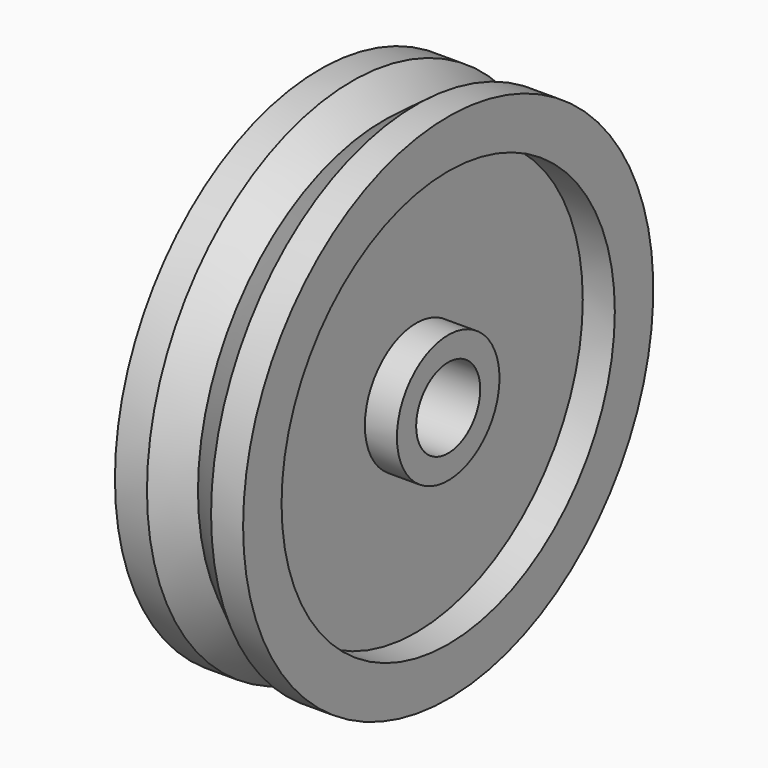
from build123d import *


with BuildPart() as f2:
    # F1 (on Top) → F2 (revolve)
    with BuildSketch(Plane.XY):
        Polygon((12.825623, -7.9375), (-12.574377, -7.9375), (-12.574377, -12.7), (-6.224377, -12.7), (-6.224377, -41.275), (-12.574377, -41.275), (-12.574377, -50.8), (-6.224377, -50.8), (0, -45.947727), (6.475623, -50.8), (12.825623, -50.8), (12.825623, -41.275), (6.475623, -41.275), (6.475623, -12.7), (12.825623, -12.7), align=None)
    revolve(axis=Axis((-2.103763, 0, 0), (1, 0, 0)))


solid = f2.part
